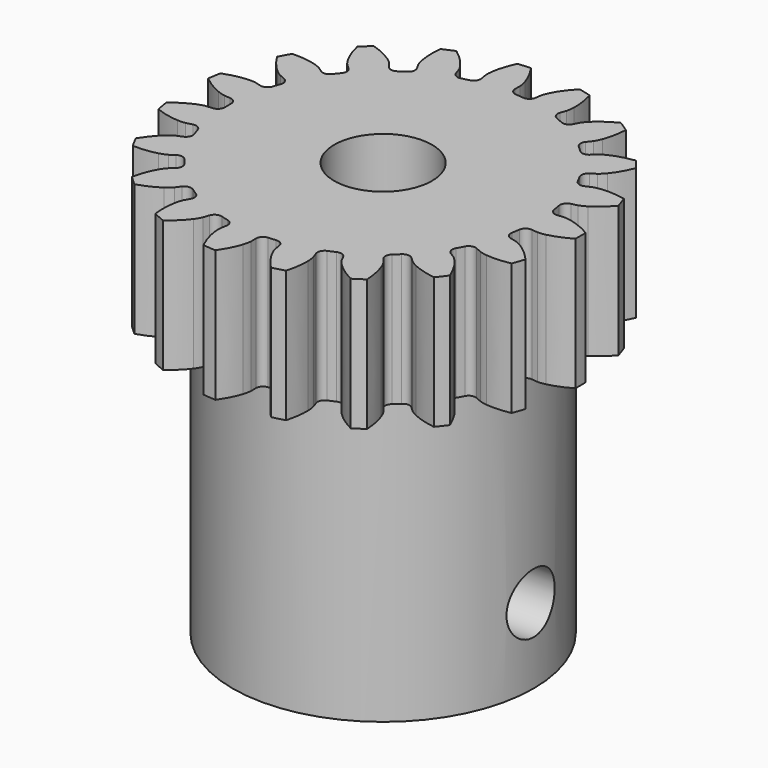
from build123d import *

# Parameters (mm, degrees)
PAD_DEPTH       = 7
SKETCH_R        = 8
PAD001_DEPTH    = 15
SKETCH002_R     = 2.6
POCKET_DEPTH    = 22.001
SKETCH001_R     = 1.6
POCKET001_DEPTH = 18.409925
POCKET002_DEPTH = 4.5


with BuildPart() as part:
    # InvoluteGear → Pad (new body)
    with BuildSketch(Plane.XY):
        with BuildLine():
            Line((8.575854, -0.83948), (8.902263, -0.870675))
            add(Edge.make_bspline(
                [(8.902263, -0.870675), (8.948723, -0.872301), (9.088539, -0.871419), (9.321927, -0.820597)],
                knots=[0, 0, 0, 0, 1, 1, 1, 1], degree=3))
            add(Edge.make_bspline(
                [(9.321927, -0.820597), (9.601005, -0.758847), (10.002268, -0.626259), (10.495483, -0.343795)],
                knots=[0, 0, 0, 0, 1, 1, 1, 1], degree=3))
            ThreePointArc((10.495483, -0.343795), (10.501113, 0), (10.495483, 0.343795))
            add(Edge.make_bspline(
                [(10.495483, 0.343795), (10.002268, 0.626259), (9.601005, 0.758847), (9.321927, 0.820597)],
                knots=[0, 0, 0, 0, 1, 1, 1, 1], degree=3))
            add(Edge.make_bspline(
                [(9.321927, 0.820597), (9.088539, 0.871419), (8.948723, 0.872301), (8.902263, 0.870675)],
                knots=[0, 0, 0, 0, 1, 1, 1, 1], degree=3))
            Line((8.902263, 0.870675), (8.575854, 0.83948))
            ThreePointArc((8.575854, 0.83948), (8.30774, 0.917746), (8.168093, 1.159634))
            ThreePointArc((8.168093, 1.159634), (8.137481, 1.357905), (8.102056, 1.555373))
            ThreePointArc((8.102056, 1.555373), (8.155595, 1.829499), (8.383769, 1.990581))
            Line((8.383769, 1.990581), (8.702622, 2.067061))
            add(Edge.make_bspline(
                [(8.702622, 2.067061), (8.747092, 2.080609), (8.879046, 2.12684), (9.083287, 2.25069)],
                knots=[0, 0, 0, 0, 1, 1, 1, 1], degree=3))
            add(Edge.make_bspline(
                [(9.083287, 2.25069), (9.327193, 2.39971), (9.663664, 2.655405), (10.038439, 3.08271)],
                knots=[0, 0, 0, 0, 1, 1, 1, 1], degree=3))
            ThreePointArc((10.038439, 3.08271), (9.932134, 3.409706), (9.815179, 3.733045))
            add(Edge.make_bspline(
                [(9.815179, 3.733045), (9.256972, 3.840058), (8.834398, 3.835172), (8.550392, 3.80296)],
                knots=[0, 0, 0, 0, 1, 1, 1, 1], degree=3))
            add(Edge.make_bspline(
                [(8.550392, 3.80296), (8.313147, 3.775247), (8.180621, 3.730683), (8.137206, 3.71406)],
                knots=[0, 0, 0, 0, 1, 1, 1, 1], degree=3))
            Line((8.137206, 3.71406), (7.838612, 3.57857))
            ThreePointArc((7.838612, 3.57857), (7.559612, 3.565539), (7.348991, 3.748978))
            ThreePointArc((7.348991, 3.748978), (7.255658, 3.926566), (7.158035, 4.101832))
            ThreePointArc((7.158035, 4.101832), (7.119665, 4.378489), (7.283173, 4.604931))
            Line((7.283173, 4.604931), (7.559916, 4.780798))
            add(Edge.make_bspline(
                [(7.559916, 4.780798), (7.597578, 4.808052), (7.707371, 4.894624), (7.860332, 5.07808)],
                knots=[0, 0, 0, 0, 1, 1, 1, 1], degree=3))
            add(Edge.make_bspline(
                [(7.860332, 5.07808), (8.042635, 5.298222), (8.277851, 5.649314), (8.493574, 6.175156)],
                knots=[0, 0, 0, 0, 1, 1, 1, 1], degree=3))
            ThreePointArc((8.493574, 6.175156), (8.286854, 6.449917), (8.071248, 6.717762))
            add(Edge.make_bspline(
                [(8.071248, 6.717762), (7.508539, 6.637727), (7.110448, 6.495896), (6.852289, 6.373213)],
                knots=[0, 0, 0, 0, 1, 1, 1, 1], degree=3))
            add(Edge.make_bspline(
                [(6.852289, 6.373213), (6.636898, 6.269968), (6.526022, 6.184788), (6.490357, 6.154968)],
                knots=[0, 0, 0, 0, 1, 1, 1, 1], degree=3))
            Line((6.490357, 6.154968), (6.251935, 5.929866))
            ThreePointArc((6.251935, 5.929866), (5.992283, 5.82695), (5.733511, 5.932061))
            ThreePointArc((5.733511, 5.932061), (5.587573, 6.069722), (5.438331, 6.203794))
            ThreePointArc((5.438331, 6.203794), (5.312209, 6.453002), (5.393332, 6.720266))
            Line((5.393332, 6.720266), (5.597976, 6.976462))
            add(Edge.make_bspline(
                [(5.597976, 6.976462), (5.624749, 7.014468), (5.700483, 7.131999), (5.785588, 7.355181)],
                knots=[0, 0, 0, 0, 1, 1, 1, 1], degree=3))
            add(Edge.make_bspline(
                [(5.785588, 7.355181), (5.886533, 7.622589), (5.995005, 8.031033), (6.028299, 8.598429)],
                knots=[0, 0, 0, 0, 1, 1, 1, 1], degree=3))
            ThreePointArc((6.028299, 8.598429), (5.743564, 8.79118), (5.452671, 8.974505))
            add(Edge.make_bspline(
                [(5.452671, 8.974505), (4.946439, 8.716095), (4.61597, 8.452689), (4.411634, 8.252829)],
                knots=[0, 0, 0, 0, 1, 1, 1, 1], degree=3))
            add(Edge.make_bspline(
                [(4.411634, 8.252829), (4.241437, 8.085241), (4.164227, 7.968674), (4.140176, 7.92889)],
                knots=[0, 0, 0, 0, 1, 1, 1, 1], degree=3))
            Line((4.140176, 7.92889), (3.987763, 7.638569))
            ThreePointArc((3.987763, 7.638569), (3.775597, 7.456921), (3.496717, 7.472314))
            ThreePointArc((3.496717, 7.472314), (3.313987, 7.55513), (3.129298, 7.633478))
            ThreePointArc((3.129298, 7.633478), (2.929093, 7.828232), (2.91904, 8.107355))
            Line((2.91904, 8.107355), (3.029409, 8.416118))
            add(Edge.make_bspline(
                [(3.029409, 8.416118), (3.04239, 8.460758), (3.075858, 8.596511), (3.083885, 8.835234)],
                knots=[0, 0, 0, 0, 1, 1, 1, 1], degree=3))
            add(Edge.make_bspline(
                [(3.083885, 8.835234), (3.092534, 9.12093), (3.062507, 9.542464), (2.909764, 10.089927)],
                knots=[0, 0, 0, 0, 1, 1, 1, 1], degree=3))
            ThreePointArc((2.909764, 10.089927), (2.577871, 10.179782), (2.243214, 10.258721))
            add(Edge.make_bspline(
                [(2.243214, 10.258721), (1.848316, 9.849939), (1.62128, 9.493502), (1.49291, 9.238124)],
                knots=[0, 0, 0, 0, 1, 1, 1, 1], degree=3))
            add(Edge.make_bspline(
                [(1.49291, 9.238124), (1.38635, 9.024353), (1.351173, 8.889032), (1.341344, 8.843594)],
                knots=[0, 0, 0, 0, 1, 1, 1, 1], degree=3))
            Line((1.341344, 8.843594), (1.291456, 8.519515))
            ThreePointArc((1.291456, 8.519515), (1.149766, 8.278818), (0.880998, 8.202825))
            ThreePointArc((0.880998, 8.202825), (0.68128, 8.221822), (0.481158, 8.235957))
            ThreePointArc((0.481158, 8.235957), (0.228564, 8.355151), (0.128424, 8.615887))
            Line((0.128424, 8.615887), (0.132558, 8.943757))
            add(Edge.make_bspline(
                [(0.132558, 8.943757), (0.130342, 8.990193), (0.117917, 9.129458), (0.047996, 9.357853)],
                knots=[0, 0, 0, 0, 1, 1, 1, 1], degree=3))
            add(Edge.make_bspline(
                [(0.047996, 9.357853), (-0.036589, 9.630877), (-0.201861, 10.019822), (-0.524089, 10.488026)],
                knots=[0, 0, 0, 0, 1, 1, 1, 1], degree=3))
            ThreePointArc((-0.524089, 10.488026), (-0.867175, 10.465246), (-1.209331, 10.431245))
            add(Edge.make_bspline(
                [(-1.209331, 10.431245), (-1.450101, 9.91639), (-1.5491, 9.505547), (-1.587593, 9.222324)],
                knots=[0, 0, 0, 0, 1, 1, 1, 1], degree=3))
            add(Edge.make_bspline(
                [(-1.587593, 9.222324), (-1.618968, 8.985536), (-1.608301, 8.846125), (-1.602844, 8.799957)],
                knots=[0, 0, 0, 0, 1, 1, 1, 1], degree=3))
            Line((-1.602844, 8.799957), (-1.544801, 8.47724))
            ThreePointArc((-1.544801, 8.47724), (-1.600659, 8.203578), (-1.830189, 8.044433))
            ThreePointArc((-1.830189, 8.044433), (-2.025255, 7.997552), (-2.219123, 7.945942))
            ThreePointArc((-2.219123, 7.945942), (-2.496734, 7.976661), (-2.676108, 8.190754))
            Line((-2.676108, 8.190754), (-2.778657, 8.502201))
            add(Edge.make_bspline(
                [(-2.778657, 8.502201), (-2.795831, 8.545401), (-2.852802, 8.673087), (-2.993094, 8.866403)],
                knots=[0, 0, 0, 0, 1, 1, 1, 1], degree=3))
            add(Edge.make_bspline(
                [(-2.993094, 8.866403), (-3.161747, 9.097169), (-3.444354, 9.411376), (-3.901149, 9.749584)],
                knots=[0, 0, 0, 0, 1, 1, 1, 1], degree=3))
            ThreePointArc((-3.901149, 9.749584), (-4.218249, 9.616639), (-4.530826, 9.473383))
            add(Edge.make_bspline(
                [(-4.530826, 9.473383), (-4.591377, 8.908245), (-4.551612, 8.487518), (-4.496057, 8.207142)],
                knots=[0, 0, 0, 0, 1, 1, 1, 1], degree=3))
            add(Edge.make_bspline(
                [(-4.496057, 8.207142), (-4.448847, 7.972996), (-4.393491, 7.844603), (-4.373339, 7.802709)],
                knots=[0, 0, 0, 0, 1, 1, 1, 1], degree=3))
            Line((-4.373339, 7.802709), (-4.213654, 7.516323))
            ThreePointArc((-4.213654, 7.516323), (-4.177628, 7.239352), (-4.343048, 7.014302))
            ThreePointArc((-4.343048, 7.014302), (-4.512322, 6.906623), (-4.678928, 6.794861))
            ThreePointArc((-4.678928, 6.794861), (-4.951471, 6.733775), (-5.190643, 6.878025))
            Line((-5.190643, 6.878025), (-5.388762, 7.1393))
            add(Edge.make_bspline(
                [(-5.388762, 7.1393), (-5.419033, 7.174583), (-5.514376, 7.276852), (-5.709836, 7.41414)],
                knots=[0, 0, 0, 0, 1, 1, 1, 1], degree=3))
            add(Edge.make_bspline(
                [(-5.709836, 7.41414), (-5.944281, 7.577642), (-6.313598, 7.783062), (-6.855459, 7.954624)],
                knots=[0, 0, 0, 0, 1, 1, 1, 1], degree=3))
            ThreePointArc((-6.855459, 7.954624), (-7.11221, 7.72592), (-7.361336, 7.488932))
            add(Edge.make_bspline(
                [(-7.361336, 7.488932), (-7.235106, 6.934754), (-7.060886, 6.549735), (-6.917303, 6.302589)],
                knots=[0, 0, 0, 0, 1, 1, 1, 1], degree=3))
            add(Edge.make_bspline(
                [(-6.917303, 6.302589), (-6.796624, 6.096459), (-6.702578, 5.992996), (-6.669915, 5.959916)],
                knots=[0, 0, 0, 0, 1, 1, 1, 1], degree=3))
            Line((-6.669915, 5.959916), (-6.425893, 5.740897))
            ThreePointArc((-6.425893, 5.740897), (-6.301887, 5.49063), (-6.38527, 5.224063))
            ThreePointArc((-6.38527, 5.224063), (-6.510409, 5.067255), (-6.631699, 4.907451))
            ThreePointArc((-6.631699, 4.907451), (-6.86964, 4.761181), (-7.14269, 4.819956))
            Line((-7.14269, 4.819956), (-7.414911, 5.002745))
            add(Edge.make_bspline(
                [(-7.414911, 5.002745), (-7.454998, 5.026287), (-7.578382, 5.092057), (-7.807829, 5.158441)],
                knots=[0, 0, 0, 0, 1, 1, 1, 1], degree=3))
            add(Edge.make_bspline(
                [(-7.807829, 5.158441), (-8.08266, 5.23696), (-8.498666, 5.311332), (-9.066873, 5.297657)],
                knots=[0, 0, 0, 0, 1, 1, 1, 1], degree=3))
            ThreePointArc((-9.066873, 5.297657), (-9.235453, 4.997977), (-9.39413, 4.692939))
            add(Edge.make_bspline(
                [(-9.39413, 4.692939), (-9.094799, 4.209775), (-8.805003, 3.902187), (-8.588952, 3.715053)],
                knots=[0, 0, 0, 0, 1, 1, 1, 1], degree=3))
            add(Edge.make_bspline(
                [(-8.588952, 3.715053), (-8.407881, 3.559276), (-8.285337, 3.491956), (-8.243702, 3.471273)],
                knots=[0, 0, 0, 0, 1, 1, 1, 1], degree=3))
            Line((-8.243702, 3.471273), (-7.941787, 3.343355))
            ThreePointArc((-7.941787, 3.343355), (-7.743238, 3.146913), (-7.735549, 2.867715))
            ThreePointArc((-7.735549, 2.867715), (-7.802992, 2.678771), (-7.865822, 2.488242))
            ThreePointArc((-7.865822, 2.488242), (-8.043377, 2.272638), (-8.320717, 2.239569))
            Line((-8.320717, 2.239569), (-8.637539, 2.324065))
            add(Edge.make_bspline(
                [(-8.637539, 2.324065), (-8.683098, 2.333315), (-8.821152, 2.355459), (-9.059722, 2.343744)],
                knots=[0, 0, 0, 0, 1, 1, 1, 1], degree=3))
            add(Edge.make_bspline(
                [(-9.059722, 2.343744), (-9.345157, 2.328771), (-9.762772, 2.264037), (-10.295752, 2.066606)],
                knots=[0, 0, 0, 0, 1, 1, 1, 1], degree=3))
            ThreePointArc((-10.295752, 2.066606), (-10.357892, 1.728426), (-10.408925, 1.388393))
            add(Edge.make_bspline(
                [(-10.408925, 1.388393), (-9.968929, 1.028602), (-9.594962, 0.831776), (-9.329854, 0.724933)],
                knots=[0, 0, 0, 0, 1, 1, 1, 1], degree=3))
            add(Edge.make_bspline(
                [(-9.329854, 0.724933), (-9.108014, 0.63639), (-8.97025, 0.612508), (-8.924156, 0.606464)],
                knots=[0, 0, 0, 0, 1, 1, 1, 1], degree=3))
            Line((-8.924156, 0.606464), (-8.597064, 0.583509))
            ThreePointArc((-8.597064, 0.583509), (-8.345489, 0.46218), (-8.247561, 0.200605))
            ThreePointArc((-8.247561, 0.200605), (-8.25, 0), (-8.247561, -0.200605))
            ThreePointArc((-8.247561, -0.200605), (-8.345489, -0.46218), (-8.597064, -0.583509))
            Line((-8.597064, -0.583509), (-8.924156, -0.606464))
            add(Edge.make_bspline(
                [(-8.924156, -0.606464), (-8.97025, -0.612508), (-9.108014, -0.63639), (-9.329854, -0.724933)],
                knots=[0, 0, 0, 0, 1, 1, 1, 1], degree=3))
            add(Edge.make_bspline(
                [(-9.329854, -0.724933), (-9.594962, -0.831776), (-9.968929, -1.028602), (-10.408925, -1.388393)],
                knots=[0, 0, 0, 0, 1, 1, 1, 1], degree=3))
            ThreePointArc((-10.408925, -1.388393), (-10.357892, -1.728426), (-10.295752, -2.066606))
            add(Edge.make_bspline(
                [(-10.295752, -2.066606), (-9.762772, -2.264037), (-9.345157, -2.328771), (-9.059722, -2.343744)],
                knots=[0, 0, 0, 0, 1, 1, 1, 1], degree=3))
            add(Edge.make_bspline(
                [(-9.059722, -2.343744), (-8.821152, -2.355459), (-8.683098, -2.333315), (-8.637539, -2.324065)],
                knots=[0, 0, 0, 0, 1, 1, 1, 1], degree=3))
            Line((-8.637539, -2.324065), (-8.320717, -2.239569))
            ThreePointArc((-8.320717, -2.239569), (-8.043377, -2.272638), (-7.865822, -2.488242))
            ThreePointArc((-7.865822, -2.488242), (-7.802992, -2.678771), (-7.735549, -2.867715))
            ThreePointArc((-7.735549, -2.867715), (-7.743238, -3.146913), (-7.941787, -3.343355))
            Line((-7.941787, -3.343355), (-8.243702, -3.471273))
            add(Edge.make_bspline(
                [(-8.243702, -3.471273), (-8.285337, -3.491956), (-8.407881, -3.559276), (-8.588952, -3.715053)],
                knots=[0, 0, 0, 0, 1, 1, 1, 1], degree=3))
            add(Edge.make_bspline(
                [(-8.588952, -3.715053), (-8.805003, -3.902187), (-9.094799, -4.209775), (-9.39413, -4.692939)],
                knots=[0, 0, 0, 0, 1, 1, 1, 1], degree=3))
            ThreePointArc((-9.39413, -4.692939), (-9.235453, -4.997977), (-9.066873, -5.297657))
            add(Edge.make_bspline(
                [(-9.066873, -5.297657), (-8.498666, -5.311332), (-8.08266, -5.23696), (-7.807829, -5.158441)],
                knots=[0, 0, 0, 0, 1, 1, 1, 1], degree=3))
            add(Edge.make_bspline(
                [(-7.807829, -5.158441), (-7.578382, -5.092057), (-7.454998, -5.026287), (-7.414911, -5.002745)],
                knots=[0, 0, 0, 0, 1, 1, 1, 1], degree=3))
            Line((-7.414911, -5.002745), (-7.14269, -4.819956))
            ThreePointArc((-7.14269, -4.819956), (-6.86964, -4.761181), (-6.631699, -4.907451))
            ThreePointArc((-6.631699, -4.907451), (-6.510409, -5.067255), (-6.38527, -5.224063))
            ThreePointArc((-6.38527, -5.224063), (-6.301887, -5.49063), (-6.425893, -5.740897))
            Line((-6.425893, -5.740897), (-6.669915, -5.959916))
            add(Edge.make_bspline(
                [(-6.669915, -5.959916), (-6.702578, -5.992996), (-6.796624, -6.096459), (-6.917303, -6.302589)],
                knots=[0, 0, 0, 0, 1, 1, 1, 1], degree=3))
            add(Edge.make_bspline(
                [(-6.917303, -6.302589), (-7.060886, -6.549735), (-7.235106, -6.934754), (-7.361336, -7.488932)],
                knots=[0, 0, 0, 0, 1, 1, 1, 1], degree=3))
            ThreePointArc((-7.361336, -7.488932), (-7.11221, -7.72592), (-6.855459, -7.954624))
            add(Edge.make_bspline(
                [(-6.855459, -7.954624), (-6.313598, -7.783062), (-5.944281, -7.577642), (-5.709836, -7.41414)],
                knots=[0, 0, 0, 0, 1, 1, 1, 1], degree=3))
            add(Edge.make_bspline(
                [(-5.709836, -7.41414), (-5.514376, -7.276852), (-5.419033, -7.174583), (-5.388762, -7.1393)],
                knots=[0, 0, 0, 0, 1, 1, 1, 1], degree=3))
            Line((-5.388762, -7.1393), (-5.190643, -6.878025))
            ThreePointArc((-5.190643, -6.878025), (-4.951471, -6.733775), (-4.678928, -6.794861))
            ThreePointArc((-4.678928, -6.794861), (-4.512322, -6.906623), (-4.343048, -7.014302))
            ThreePointArc((-4.343048, -7.014302), (-4.177628, -7.239352), (-4.213654, -7.516323))
            Line((-4.213654, -7.516323), (-4.373339, -7.802709))
            add(Edge.make_bspline(
                [(-4.373339, -7.802709), (-4.393491, -7.844603), (-4.448847, -7.972996), (-4.496057, -8.207142)],
                knots=[0, 0, 0, 0, 1, 1, 1, 1], degree=3))
            add(Edge.make_bspline(
                [(-4.496057, -8.207142), (-4.551612, -8.487518), (-4.591377, -8.908245), (-4.530826, -9.473383)],
                knots=[0, 0, 0, 0, 1, 1, 1, 1], degree=3))
            ThreePointArc((-4.530826, -9.473383), (-4.218249, -9.616639), (-3.901149, -9.749584))
            add(Edge.make_bspline(
                [(-3.901149, -9.749584), (-3.444354, -9.411376), (-3.161747, -9.097169), (-2.993094, -8.866403)],
                knots=[0, 0, 0, 0, 1, 1, 1, 1], degree=3))
            add(Edge.make_bspline(
                [(-2.993094, -8.866403), (-2.852802, -8.673087), (-2.795831, -8.545401), (-2.778657, -8.502201)],
                knots=[0, 0, 0, 0, 1, 1, 1, 1], degree=3))
            Line((-2.778657, -8.502201), (-2.676108, -8.190754))
            ThreePointArc((-2.676108, -8.190754), (-2.496734, -7.976661), (-2.219123, -7.945942))
            ThreePointArc((-2.219123, -7.945942), (-2.025255, -7.997552), (-1.830189, -8.044433))
            ThreePointArc((-1.830189, -8.044433), (-1.600659, -8.203578), (-1.544801, -8.47724))
            Line((-1.544801, -8.47724), (-1.602844, -8.799957))
            add(Edge.make_bspline(
                [(-1.602844, -8.799957), (-1.608301, -8.846125), (-1.618968, -8.985536), (-1.587593, -9.222324)],
                knots=[0, 0, 0, 0, 1, 1, 1, 1], degree=3))
            add(Edge.make_bspline(
                [(-1.587593, -9.222324), (-1.5491, -9.505547), (-1.450101, -9.91639), (-1.209331, -10.431245)],
                knots=[0, 0, 0, 0, 1, 1, 1, 1], degree=3))
            ThreePointArc((-1.209331, -10.431245), (-0.867175, -10.465246), (-0.524089, -10.488026))
            add(Edge.make_bspline(
                [(-0.524089, -10.488026), (-0.201861, -10.019822), (-0.036589, -9.630877), (0.047996, -9.357853)],
                knots=[0, 0, 0, 0, 1, 1, 1, 1], degree=3))
            add(Edge.make_bspline(
                [(0.047996, -9.357853), (0.117917, -9.129458), (0.130342, -8.990193), (0.132558, -8.943757)],
                knots=[0, 0, 0, 0, 1, 1, 1, 1], degree=3))
            Line((0.132558, -8.943757), (0.128424, -8.615887))
            ThreePointArc((0.128424, -8.615887), (0.228564, -8.355151), (0.481158, -8.235957))
            ThreePointArc((0.481158, -8.235957), (0.68128, -8.221822), (0.880998, -8.202825))
            ThreePointArc((0.880998, -8.202825), (1.149766, -8.278818), (1.291456, -8.519515))
            Line((1.291456, -8.519515), (1.341344, -8.843594))
            add(Edge.make_bspline(
                [(1.341344, -8.843594), (1.351173, -8.889032), (1.38635, -9.024353), (1.49291, -9.238124)],
                knots=[0, 0, 0, 0, 1, 1, 1, 1], degree=3))
            add(Edge.make_bspline(
                [(1.49291, -9.238124), (1.62128, -9.493502), (1.848316, -9.849939), (2.243214, -10.258721)],
                knots=[0, 0, 0, 0, 1, 1, 1, 1], degree=3))
            ThreePointArc((2.243214, -10.258721), (2.577871, -10.179782), (2.909764, -10.089927))
            add(Edge.make_bspline(
                [(2.909764, -10.089927), (3.062507, -9.542464), (3.092534, -9.12093), (3.083885, -8.835234)],
                knots=[0, 0, 0, 0, 1, 1, 1, 1], degree=3))
            add(Edge.make_bspline(
                [(3.083885, -8.835234), (3.075858, -8.596511), (3.04239, -8.460758), (3.029409, -8.416118)],
                knots=[0, 0, 0, 0, 1, 1, 1, 1], degree=3))
            Line((3.029409, -8.416118), (2.91904, -8.107355))
            ThreePointArc((2.91904, -8.107355), (2.929093, -7.828232), (3.129298, -7.633478))
            ThreePointArc((3.129298, -7.633478), (3.313987, -7.55513), (3.496717, -7.472314))
            ThreePointArc((3.496717, -7.472314), (3.775597, -7.456921), (3.987763, -7.638569))
            Line((3.987763, -7.638569), (4.140176, -7.92889))
            add(Edge.make_bspline(
                [(4.140176, -7.92889), (4.164227, -7.968674), (4.241437, -8.085241), (4.411634, -8.252829)],
                knots=[0, 0, 0, 0, 1, 1, 1, 1], degree=3))
            add(Edge.make_bspline(
                [(4.411634, -8.252829), (4.61597, -8.452689), (4.946439, -8.716095), (5.452671, -8.974505)],
                knots=[0, 0, 0, 0, 1, 1, 1, 1], degree=3))
            ThreePointArc((5.452671, -8.974505), (5.743564, -8.79118), (6.028299, -8.598429))
            add(Edge.make_bspline(
                [(6.028299, -8.598429), (5.995005, -8.031033), (5.886533, -7.622589), (5.785588, -7.355181)],
                knots=[0, 0, 0, 0, 1, 1, 1, 1], degree=3))
            add(Edge.make_bspline(
                [(5.785588, -7.355181), (5.700483, -7.131999), (5.624749, -7.014468), (5.597976, -6.976462)],
                knots=[0, 0, 0, 0, 1, 1, 1, 1], degree=3))
            Line((5.597976, -6.976462), (5.393332, -6.720266))
            ThreePointArc((5.393332, -6.720266), (5.312209, -6.453002), (5.438331, -6.203794))
            ThreePointArc((5.438331, -6.203794), (5.587573, -6.069722), (5.733511, -5.932061))
            ThreePointArc((5.733511, -5.932061), (5.992283, -5.82695), (6.251935, -5.929866))
            Line((6.251935, -5.929866), (6.490357, -6.154968))
            add(Edge.make_bspline(
                [(6.490357, -6.154968), (6.526022, -6.184788), (6.636898, -6.269968), (6.852289, -6.373213)],
                knots=[0, 0, 0, 0, 1, 1, 1, 1], degree=3))
            add(Edge.make_bspline(
                [(6.852289, -6.373213), (7.110448, -6.495896), (7.508539, -6.637727), (8.071248, -6.717762)],
                knots=[0, 0, 0, 0, 1, 1, 1, 1], degree=3))
            ThreePointArc((8.071248, -6.717762), (8.286854, -6.449917), (8.493574, -6.175156))
            add(Edge.make_bspline(
                [(8.493574, -6.175156), (8.277851, -5.649314), (8.042635, -5.298222), (7.860332, -5.07808)],
                knots=[0, 0, 0, 0, 1, 1, 1, 1], degree=3))
            add(Edge.make_bspline(
                [(7.860332, -5.07808), (7.707371, -4.894624), (7.597578, -4.808052), (7.559916, -4.780798)],
                knots=[0, 0, 0, 0, 1, 1, 1, 1], degree=3))
            Line((7.559916, -4.780798), (7.283173, -4.604931))
            ThreePointArc((7.283173, -4.604931), (7.119665, -4.378489), (7.158035, -4.101832))
            ThreePointArc((7.158035, -4.101832), (7.255658, -3.926566), (7.348991, -3.748978))
            ThreePointArc((7.348991, -3.748978), (7.559612, -3.565539), (7.838612, -3.57857))
            Line((7.838612, -3.57857), (8.137206, -3.71406))
            add(Edge.make_bspline(
                [(8.137206, -3.71406), (8.180621, -3.730683), (8.313147, -3.775247), (8.550392, -3.80296)],
                knots=[0, 0, 0, 0, 1, 1, 1, 1], degree=3))
            add(Edge.make_bspline(
                [(8.550392, -3.80296), (8.834398, -3.835172), (9.256972, -3.840058), (9.815179, -3.733045)],
                knots=[0, 0, 0, 0, 1, 1, 1, 1], degree=3))
            ThreePointArc((9.815179, -3.733045), (9.932134, -3.409706), (10.038439, -3.08271))
            add(Edge.make_bspline(
                [(10.038439, -3.08271), (9.663664, -2.655405), (9.327193, -2.39971), (9.083287, -2.25069)],
                knots=[0, 0, 0, 0, 1, 1, 1, 1], degree=3))
            add(Edge.make_bspline(
                [(9.083287, -2.25069), (8.879046, -2.12684), (8.747092, -2.080609), (8.702622, -2.067061)],
                knots=[0, 0, 0, 0, 1, 1, 1, 1], degree=3))
            Line((8.702622, -2.067061), (8.383769, -1.990581))
            ThreePointArc((8.383769, -1.990581), (8.155595, -1.829499), (8.102056, -1.555373))
            ThreePointArc((8.102056, -1.555373), (8.137481, -1.357905), (8.168093, -1.159634))
            ThreePointArc((8.168093, -1.159634), (8.30774, -0.917746), (8.575854, -0.83948))
        make_face()
    extrude(amount=PAD_DEPTH)

    # Sketch → Pad001 (join)
    with BuildSketch(Plane.XY):
        Circle(SKETCH_R)
    extrude(amount=-PAD001_DEPTH)

    # Sketch002 (on DatumPlane) → Pocket (cut, through all)
    with BuildSketch(Plane(origin=(0, 0, -15), x_dir=(1, 0, 0), z_dir=(0, 0, -1))):
        Circle(SKETCH002_R)
    extrude(amount=-POCKET_DEPTH, mode=Mode.SUBTRACT)

    # Sketch001 (on DatumPlane) → Pocket001 (cut, through all)
    with BuildSketch(Plane(origin=(8, 0, -15), x_dir=(0, -1, 0), z_dir=(1, 0, 0))):
        with Locations((0, -4)):
            Circle(SKETCH001_R)
    extrude(amount=-POCKET001_DEPTH, mode=Mode.SUBTRACT)

    # Sketch003 → Pocket002 (cut, symmetric)
    with BuildSketch(Plane.YZ):
        Polygon((3, -12.732051), (3, -9.267949), (0, -7.535898), (-3, -9.267949), (-3, -12.732051), (-3, -22.732051), (3, -22.732051), align=None)
    extrude(amount=POCKET002_DEPTH, both=True, mode=Mode.SUBTRACT)


solid = part.part
